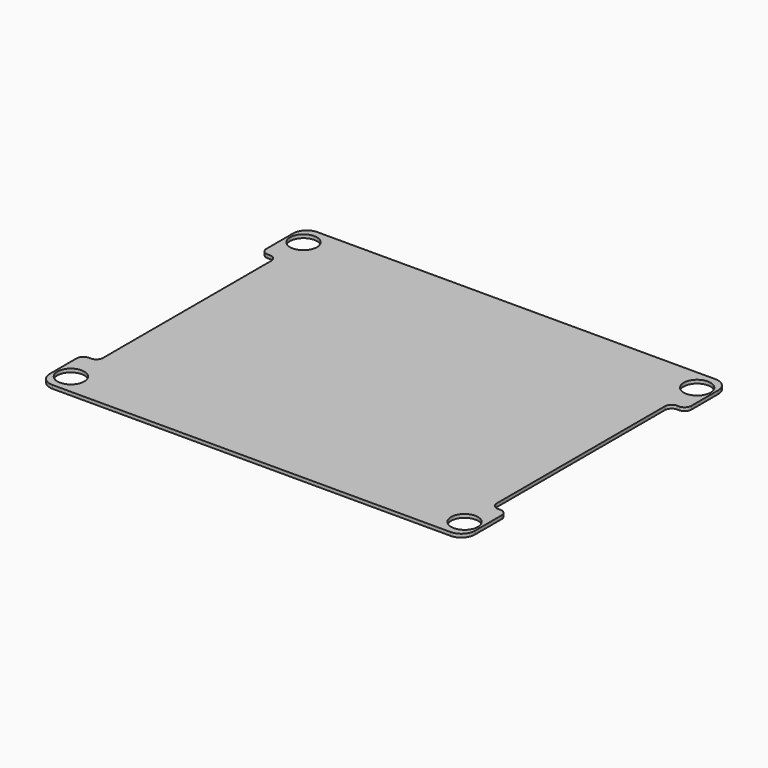
from build123d import *

# Parameters (mm, degrees)
SKETCH_W     = 95
SKETCH_H     = 74
PAD_DEPTH    = 0.76
SKETCH001_R  = 3
SKETCH001_W  = 20
SKETCH001_H  = 50
POCKET_DEPTH = 5
FILLET_R     = 3
FILLET001_R  = 1.5


with BuildPart() as part:
    # Sketch → Pad (new body)
    with BuildSketch(Plane.XY):
        Rectangle(SKETCH_W, SKETCH_H)
    extrude(amount=PAD_DEPTH)

    # Sketch001 → Pocket (cut)
    with BuildSketch(Plane.XY.offset(0.76)):
        with Locations((-44, 32.5)):
            Circle(SKETCH001_R)
        with Locations((44, 32.5)):
            Circle(SKETCH001_R)
        with Locations((44, -32.5)):
            Circle(SKETCH001_R)
        with Locations((-44, -32.5)):
            Circle(SKETCH001_R)
        with Locations((54, 0)):
            Rectangle(SKETCH001_W, SKETCH001_H)
        with Locations((-54, 0)):
            Rectangle(SKETCH001_W, SKETCH001_H)
    extrude(amount=-POCKET_DEPTH, mode=Mode.SUBTRACT)

    # Fillet
    fillet_edges = [part.edges().sort_by_distance(p)[0] for p in [
        (-47.5, 37, 0.38),
        (47.5, 37, 0.38),
        (47.5, -37, 0.38),
        (-47.5, -37, 0.38),
    ]]
    fillet(fillet_edges, radius=FILLET_R)

    # Fillet001
    fillet001_edges = [part.edges().sort_by_distance(p)[0] for p in [
        (47.5, -25, 0.38),
        (44, -25, 0.38),
        (44, 25, 0.38),
        (47.5, 25, 0.38),
        (-44, 25, 0.38),
        (-47.5, 25, 0.38),
        (-44, -25, 0.38),
        (-47.5, -25, 0.38),
    ]]
    fillet(fillet001_edges, radius=FILLET001_R)


solid = part.part
